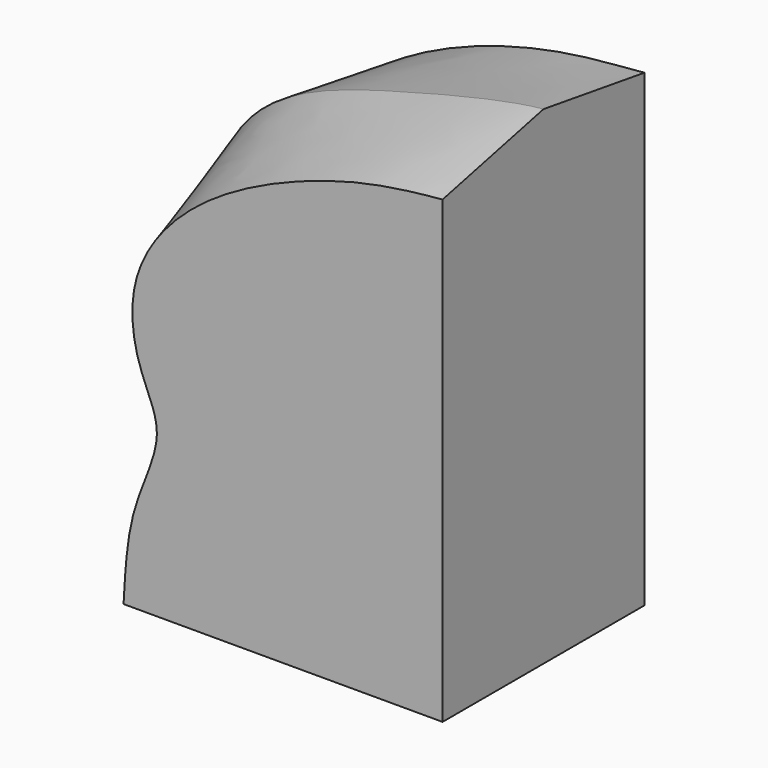
from build123d import *


with BuildPart() as f5:
    # F2 (on offset) → F5 section 0
    with BuildSketch(Plane.XZ.offset(20)):
        with BuildLine():
            add(Edge.make_bspline(
                [(-25.2818539739, 0), (-25.1406181794, 2.4600815255), (-24.9354582402, 6.9702181833), (-21.7101885687, 12.7525544185), (-24.3765940763, 16.8986828652), (-25.1625563988, 23.7542045271), (-19.0097721002, 31.1758214073), (-7.6582088117, 35.6579662942), (-2.4102008701, 36.2148191113), (0, 36.4457145333)],
                knots=[0, 0, 0, 0, 0.1407757405, 0.2692269608, 0.3801954122, 0.5120398246, 0.6709766394, 0.8543641223, 1, 1, 1, 1], degree=3))
            Line((-25.2818539739, 0), (0, 0))
            Line((0, 0), (0, 36.4457145333))
        make_face()
    # F3 (on offset) → F5 section 1
    with BuildSketch(Plane.XZ.offset(10)):
        with BuildLine():
            add(Edge.make_bspline(
                [(-25.2818539739, 0), (-25.1469127733, 2.3504406637), (-25.4423033881, 7.1787529376), (-20.0096245128, 12.5667089075), (-24.4004062023, 16.9578604371), (-27.336653566, 23.235951711), (-23.3233061395, 32.7402054418), (-11.5451684252, 36.2886713642), (-2.8351177494, 38.4170091012), (0, 38.6886112392)],
                knots=[0, 0, 0, 0, 0.1345016502, 0.2598125915, 0.37236456, 0.5021652659, 0.6518685072, 0.8286886098, 1, 1, 1, 1], degree=3))
            Line((-25.2818539739, 0), (0, 0))
            Line((0, 0), (0, 38.6886112392))
        make_face()
    loft()

    # F3 (on offset) → F6 section 0
    with BuildSketch(Plane.XZ.offset(10)):
        with BuildLine():
            add(Edge.make_bspline(
                [(-25.2818539739, 0), (-25.1469127733, 2.3504406637), (-25.4423033881, 7.1787529376), (-20.0096245128, 12.5667089075), (-24.4004062023, 16.9578604371), (-27.336653566, 23.235951711), (-23.3233061395, 32.7402054418), (-11.5451684252, 36.2886713642), (-2.8351177494, 38.4170091012), (0, 38.6886112392)],
                knots=[0, 0, 0, 0, 0.1345016502, 0.2598125915, 0.37236456, 0.5021652659, 0.6518685072, 0.8286886098, 1, 1, 1, 1], degree=3))
            Line((-25.2818539739, 0), (0, 0))
            Line((0, 0), (0, 38.6886112392))
        make_face()
    # F4 (on Front) → F6 section 1
    with BuildSketch(Plane.XZ):
        with BuildLine():
            add(Edge.make_bspline(
                [(-25.2818539739, 0), (-25.1438832679, 2.4032093697), (-24.880315206, 7.0032606596), (-21.8711865203, 12.7206484273), (-23.8489163046, 17.0374687027), (-28.049654453, 23.5628487623), (-20.6397564007, 32.4627651506), (-7.9265974812, 36.6827787756), (-2.3782923361, 36.9358250469), (0, 37.1636636555)],
                knots=[0, 0, 0, 0, 0.1375212874, 0.2630029729, 0.371406056, 0.5041208602, 0.6669546339, 0.8562921887, 1, 1, 1, 1], degree=3))
            Line((-25.2818539739, 0), (0, 0))
            Line((0, 0), (0, 37.1636636555))
        make_face()
    loft()


solid = f5.part
